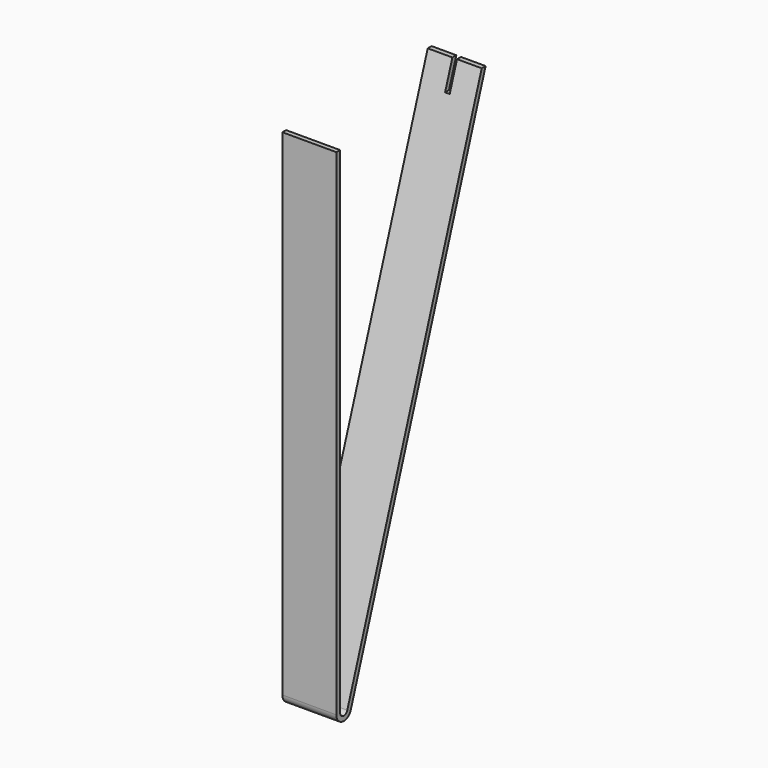
from build123d import *

# Parameters (mm, degrees)
F1_DEPTH = 7
F2_W     = 0.6
F2_H     = 3.5
F3_DEPTH = 32.5
F4_R     = 0.6
F5_R     = 1.2


with BuildPart() as f1:
    # F0 (on Right) → F1 (new body)
    with BuildSketch(Plane.YZ):
        Polygon((-46.919775, 55.204037), (-47.519775, 55.204037), (-47.519775, -16.295963), (-23.335952, 55.204037), (-23.969343, 55.204037), (-46.919775, -12.649414), align=None)
    extrude(amount=F1_DEPTH)

    # F2 (on face) → F3 (cut)
    with BuildSketch(Plane(origin=(0, -46.919775, 0), x_dir=(-1, 0, 0), z_dir=(0, 1, 0))):
        with Locations((-3.5, 53.454037)):
            Rectangle(F2_W, F2_H)
    extrude(amount=F3_DEPTH, mode=Mode.SUBTRACT)

    # F4
    f4_edges = [f1.edges().sort_by_distance(p)[0] for p in [
        (3.5, -46.919775, -12.649414),
    ]]
    fillet(f4_edges, radius=F4_R)

    # F5
    f5_edges = [f1.edges().sort_by_distance(p)[0] for p in [
        (3.5, -47.519775, -16.295963),
    ]]
    fillet(f5_edges, radius=F5_R)


solid = f1.part
